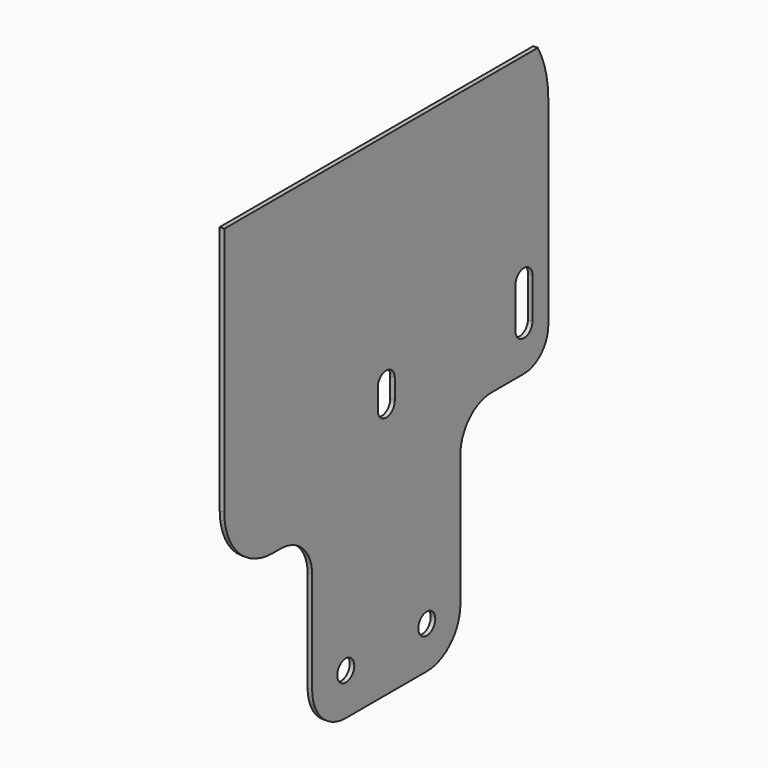
from build123d import *

# Parameters (mm, degrees)
F0_R     = 10.5
F1_DEPTH = 4.5


with BuildPart() as f1:
    # F0 (on Right) → F1 (new body)
    with BuildSketch(Plane.YZ):
        with BuildLine():
            Line((287.05952, 303.862062), (-100, 303.862062))
            Line((-100, 303.862062), (-100, 57.362062))
            ThreePointArc((-100, 57.362062), (-82.426407, 14.935655), (-40, -2.637938))
            Line((-40, -2.637938), (-30, -2.637938))
            ThreePointArc((-30, -2.637938), (-2.776389, -13.914327), (8.5, -41.137938))
            Line((8.5, -41.137938), (8.5, -141.137938))
            ThreePointArc((8.5, -141.137938), (20.655069, -170.482869), (50, -182.637938))
            Line((50, -182.637938), (150, -182.637938))
            ThreePointArc((150, -182.637938), (179.344931, -170.482869), (191.5, -141.137938))
            Line((191.5, -141.137938), (191.5, -11.137938))
            ThreePointArc((191.5, -11.137938), (202.776389, 16.085673), (230, 27.362062))
            Line((230, 27.362062), (270, 27.362062))
            ThreePointArc((270, 27.362062), (291.213203, 36.148859), (300, 57.362062))
            Line((300, 57.362062), (300, 254.662062))
            ThreePointArc((300, 254.662062), (296.710785, 280.098729), (287.05952, 303.862062))
        make_face()
        with Locations((50, -141.137938)):
            Circle(F0_R, mode=Mode.SUBTRACT)
        with Locations((150, -141.137938)):
            Circle(F0_R, mode=Mode.SUBTRACT)
        with BuildLine():
            ThreePointArc((89.5, 88.862062), (100, 99.362062), (110.5, 88.862062))
            Line((110.5, 88.862062), (110.5, 68.862062))
            ThreePointArc((110.5, 68.862062), (100, 58.362062), (89.5, 68.862062))
            Line((89.5, 68.862062), (89.5, 88.862062))
        make_face(mode=Mode.SUBTRACT)
        with BuildLine():
            Line((259.5, 68.862062), (259.5, 88.862062))
            Line((259.5, 88.862062), (259.5, 108.862062))
            ThreePointArc((259.5, 108.862062), (270, 119.362062), (280.5, 108.862062))
            Line((280.5, 108.862062), (280.5, 68.862062))
            ThreePointArc((280.5, 68.862062), (270, 58.362062), (259.5, 68.862062))
        make_face(mode=Mode.SUBTRACT)
    extrude(amount=F1_DEPTH)


solid = f1.part
